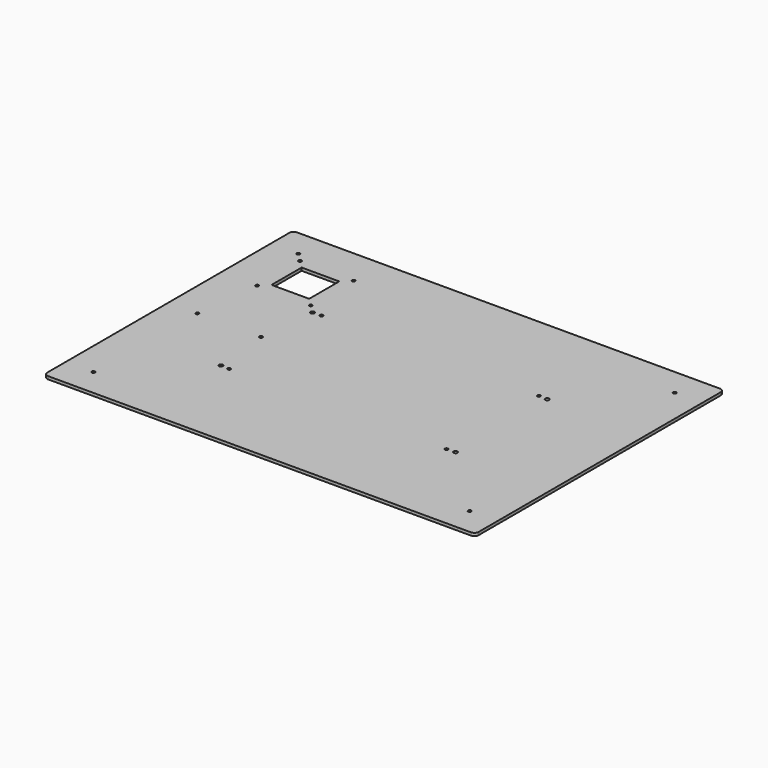
from build123d import *

# Parameters (mm, degrees)
F0_W     = 473.075
F0_H     = 341.3125
F0_R     = 2.15265
F0_R_2   = 1.7272
F0_W_2   = 41.275
F0_H_2   = 41.275
F1_DEPTH = 3.175
F3_R     = 4.7625
F2_R     = 1.7272
F4_DEPTH = 3.175
F5_R     = 1.7272
F6_DEPTH = 3.175


with BuildPart() as f1:
    # F0 (on Top) → F1 (new body)
    with BuildSketch(Plane.XY):
        Rectangle(F0_W, F0_H)
        with Locations((-128.679393, -62.798143)):
            Circle(F0_R, mode=Mode.SUBTRACT)
        with Locations((-119.167743, -63.302274)):
            Circle(F0_R_2, mode=Mode.SUBTRACT)
        with Locations((119.167743, -63.302274)):
            Circle(F0_R_2, mode=Mode.SUBTRACT)
        with Locations((128.679393, -62.798143)):
            Circle(F0_R, mode=Mode.SUBTRACT)
        with Locations((-196.85, 72.23125)):
            Circle(F0_R_2, mode=Mode.SUBTRACT)
        with Locations((-128.679393, 62.798143)):
            Circle(F0_R, mode=Mode.SUBTRACT)
        with Locations((-119.167743, 63.302274)):
            Circle(F0_R_2, mode=Mode.SUBTRACT)
        with Locations((-138.1125, 72.23125)):
            Circle(F0_R_2, mode=Mode.SUBTRACT)
        with Locations((-167.48125, 101.6)):
            Rectangle(F0_W_2, F0_H_2, mode=Mode.SUBTRACT)
        with Locations((-196.85, 130.96875)):
            Circle(F0_R_2, mode=Mode.SUBTRACT)
        with Locations((-138.1125, 130.96875)):
            Circle(F0_R_2, mode=Mode.SUBTRACT)
        with Locations((119.167743, 63.302274)):
            Circle(F0_R_2, mode=Mode.SUBTRACT)
        with Locations((128.679393, 62.798143)):
            Circle(F0_R, mode=Mode.SUBTRACT)
    extrude(amount=F1_DEPTH)

    # F3
    f3_edges = [f1.edges().sort_by_distance(p)[0] for p in [
        (236.5375, -170.65625, 1.5875),
        (236.5375, 170.65625, 1.5875),
        (-236.5375, 170.65625, 1.5875),
        (-236.5375, -170.65625, 1.5875),
    ]]
    fillet(f3_edges, radius=F3_R)

    # F2 (on face) → F4 (cut, through all)
    with BuildSketch(Plane.XY.offset(3.175)):
        with Locations((-206.375, -140.49375)):
            Circle(F2_R)
        with Locations((-206.375, 140.49375)):
            Circle(F2_R)
        with Locations((206.375, 140.49375)):
            Circle(F2_R)
        with Locations((206.375, -140.49375)):
            Circle(F2_R)
    extrude(amount=-F4_DEPTH, mode=Mode.SUBTRACT)

    # F5 (on face) → F6 (cut, through all)
    with BuildSketch(Plane.XY.offset(3.175)):
        with Locations((-134.937486, 0)):
            Circle(F5_R)
        with Locations((-204.7875, 0)):
            Circle(F5_R)
    extrude(amount=-F6_DEPTH, mode=Mode.SUBTRACT)


solid = f1.part
